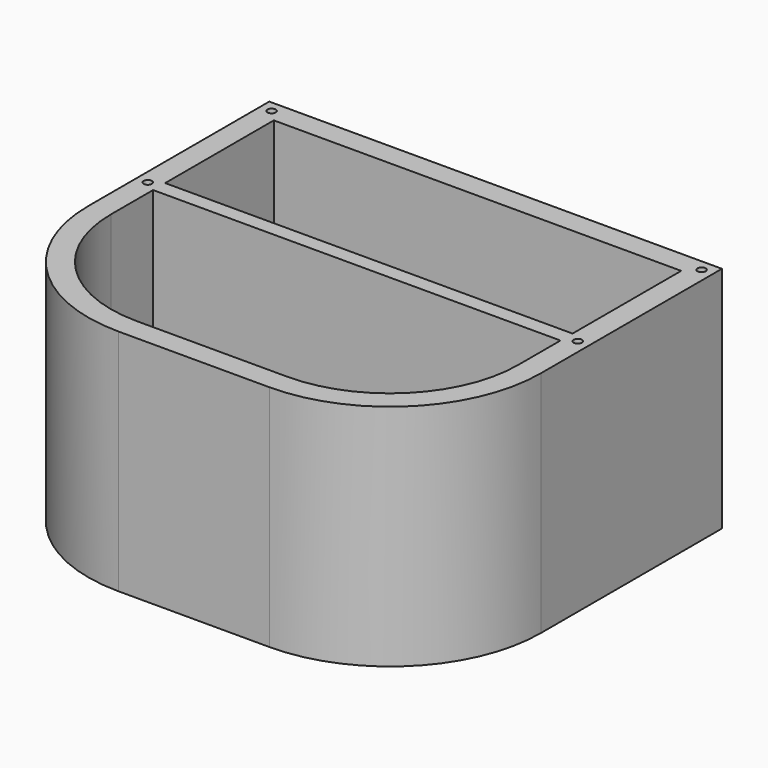
from build123d import *

# Parameters (mm, degrees)
F1_DEPTH = 7
F2_W     = 137.16
F2_H     = 5.08
F3_DEPTH = 100
F5_DEPTH = 30
F6_W     = 8
F6_H     = 8
F7_DEPTH = 25.4
F8_R     = 1.3843
F9_DEPTH = 15.24


with BuildPart() as f1:
    # F0 (on Top) → F1 (new body)
    with BuildSketch(Plane.XY):
        with BuildLine():
            Line((152.4, 0), (0, 0))
            Line((0, 0), (0, -76.2))
            ThreePointArc((0, -76.2), (14.878976, -112.121024), (50.8, -127))
            Line((50.8, -127), (101.6, -127))
            ThreePointArc((101.6, -127), (137.521024, -112.121024), (152.4, -76.2))
            Line((152.4, -76.2), (152.4, 0))
        make_face()
    extrude(amount=F1_DEPTH)

    # F2 (on face) → F3 (join)
    with BuildSketch(Plane.XY.offset(7)):
        with BuildLine():
            Line((152.4, 0), (0, 0))
            Line((0, 0), (0, -76.2))
            ThreePointArc((0, -76.2), (14.878976, -112.121024), (50.8, -127))
            Line((50.8, -127), (101.6, -127))
            ThreePointArc((101.6, -127), (137.521024, -112.121024), (152.4, -76.2))
            Line((152.4, -76.2), (152.4, 0))
        make_face()
        with BuildLine():
            Line((7.62, -53.34), (7.62, -7.62))
            Line((7.62, -7.62), (144.78, -7.62))
            Line((144.78, -7.62), (144.78, -53.34))
            Line((144.78, -53.34), (144.78, -58.42))
            Line((144.78, -58.42), (144.78, -76.2))
            ThreePointArc((144.78, -76.2), (132.132871, -106.732871), (101.6, -119.38))
            Line((101.6, -119.38), (50.8, -119.38))
            ThreePointArc((50.8, -119.38), (20.267129, -106.732871), (7.62, -76.2))
            Line((7.62, -76.2), (7.62, -58.42))
            Line((7.62, -58.42), (7.62, -53.34))
        make_face(mode=Mode.SUBTRACT)
        with Locations((76.2, -55.88)):
            Rectangle(F2_W, F2_H)
    extrude(amount=F3_DEPTH)

    # F4 (on face) → F5 (cut)
    with BuildSketch(Plane.XY.offset(107)):
        Polygon((0, 0), (0, -58.42), (0, -127), (152.4, -127), (152.4, -58.42), (152.4, 0), align=None)
    extrude(amount=-F5_DEPTH, mode=Mode.SUBTRACT)

    # F6 (on face) → F7 (cut)
    with BuildSketch(Plane.XZ.offset(58.42)):
        with Locations((11.62, 11)):
            Rectangle(F6_W, F6_H)
        with Locations((140.78, 11)):
            Rectangle(F6_W, F6_H)
    extrude(amount=-F7_DEPTH, mode=Mode.SUBTRACT)

    # F8 (on face) → F9 (cut)
    with BuildSketch(Plane.XY.offset(77)):
        with Locations((3.81, -3.81)):
            Circle(F8_R)
        with Locations((3.81, -55.88)):
            Circle(F8_R)
        with Locations((148.59, -3.81)):
            Circle(F8_R)
        with Locations((148.59, -55.88)):
            Circle(F8_R)
    extrude(amount=-F9_DEPTH, mode=Mode.SUBTRACT)


solid = f1.part
